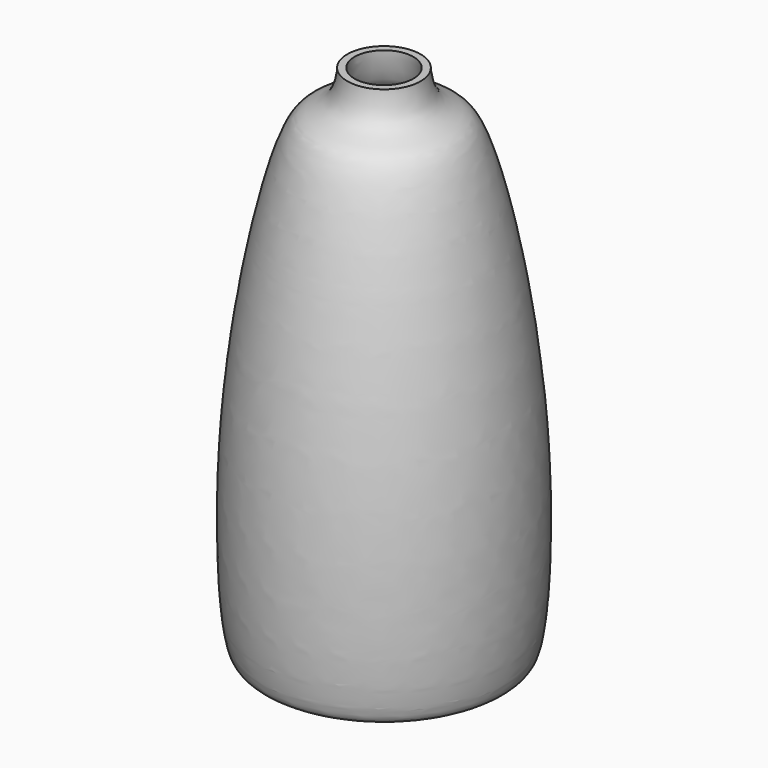
from build123d import *


with BuildPart() as f1:
    # F0 (on Front) → F1 (revolve)
    with BuildSketch(Plane.XZ):
        with BuildLine():
            add(Edge.make_bspline(
                [(196.4803932235, 3.5791040864), (188.9392594991, 3.4381250515), (138.4488907951, 4.1180264836), (131.9851899269, 7.1792223324), (124.2413995086, 12.4294042541), (118.6894242317, 132.127815381), (146.666326007, 261.6953542329), (159.4616775751, 274.3486631661), (169.9898766912, 278.5014572861), (174.4359068821, 285.7768404912), (175.6629783002, 291.8733104109), (175.9653491899, 296.3004410267)],
                knots=[0, 0, 0, 0, 0.1570318099, 0.2151472274, 0.2617060005, 0.4862050823, 0.7296699876, 0.8078342516, 0.8736729389, 0.9315975661, 1, 1, 1, 1], degree=3))
            Line((196.4803932235, 3.5791040864), (196.4803932235, 7.5791040864))
            add(Edge.make_bspline(
                [(196.4803932235, 7.5791040864), (188.777962802, 7.4351096623), (139.071849183, 9.3220976086), (137.8653624903, 10.4121228341), (128.429032077, 13.5547165768), (119.3586282349, 131.7400391938), (149.4515683157, 261.0047141676), (161.725119855, 271.2374923255), (173.3559034096, 273.8380799424), (178.0730564173, 284.6073487223), (179.635241192, 291.4672005464), (179.9653491899, 296.3004410267)],
                knots=[0, 0, 0, 0, 0.1603905505, 0.19213568, 0.2367289744, 0.4648222454, 0.7138327046, 0.7877624742, 0.8561540472, 0.9253228691, 1, 1, 1, 1], degree=3))
            Line((179.9653491899, 296.3004410267), (175.9653491899, 296.3004410267))
        make_face()
    revolve(axis=Axis((196.4803932235, 0, 5.5791040864), (0, 0, 1)))


solid = f1.part
